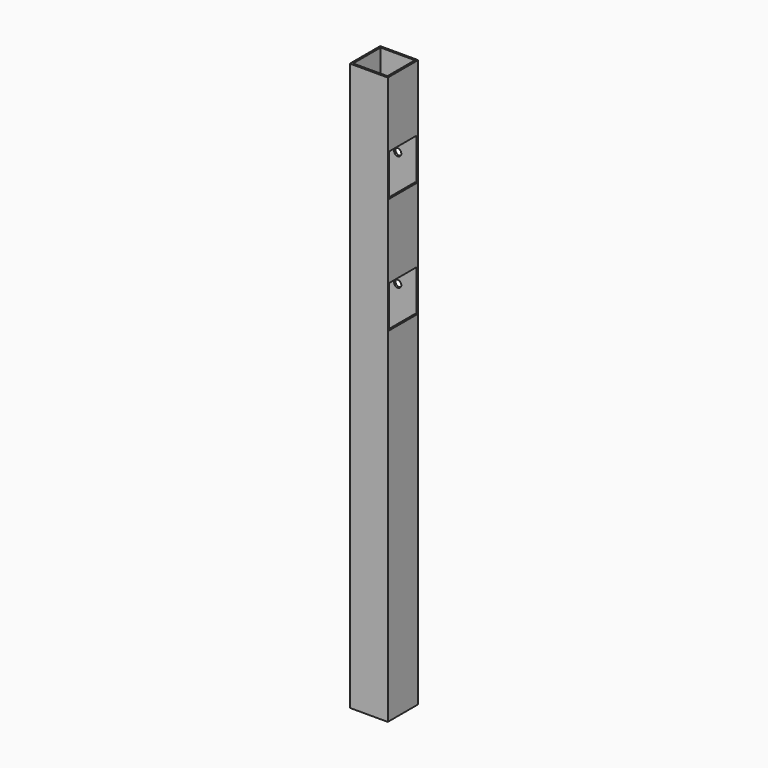
from build123d import *

# Parameters (mm, degrees)
F0_W      = 63.5
F0_H      = 63.5
F0_W_2    = 57.5
F0_H_2    = 57.5
F1_DEPTH  = 950
F2_W      = 57.5
F2_H      = 70
F3_DEPTH  = 3
F4_W      = 57.5
F4_H      = 70
F5_DEPTH  = 3
F7_DEPTH  = 3
F8_DEPTH  = 3
F9_R      = 6
F10_DEPTH = 3
F11_R     = 6
F12_DEPTH = 3


with BuildPart() as f1:
    # F0 (on Top) → F1 (new body)
    with BuildSketch(Plane.XY):
        with Locations((7.6151648536, -5.7103513741)):
            Rectangle(F0_W, F0_H)
        with Locations((7.6151648536, -5.7103513741)):
            Rectangle(F0_W_2, F0_H_2, mode=Mode.SUBTRACT)
    extrude(amount=F1_DEPTH)

    # F2 (on face) → F3 (cut)
    with BuildSketch(Plane.YZ.offset(39.3651648536)):
        with Locations((-5.7103513741, 805)):
            Rectangle(F2_W, F2_H)
    extrude(amount=-F3_DEPTH, mode=Mode.SUBTRACT)

    # F4 (on face) → F5 (cut)
    with BuildSketch(Plane.YZ.offset(39.3651648536)):
        with Locations((-5.7103513741, 611)):
            Rectangle(F4_W, F4_H)
    extrude(amount=-F5_DEPTH, mode=Mode.SUBTRACT)

    # F9 (on face) → F10 (cut)
    with BuildSketch(Plane(origin=(0, 26.0396486259, 0), x_dir=(-1, 0, 0), z_dir=(0, 1, 0))):
        with Locations((-7.6151648536, 805)):
            Circle(F9_R)
    extrude(amount=-F10_DEPTH, mode=Mode.SUBTRACT)

    # F11 (on face) → F12 (cut)
    with BuildSketch(Plane(origin=(0, 26.0396486259, 0), x_dir=(-1, 0, 0), z_dir=(0, 1, 0))):
        with Locations((-7.6151648536, 611)):
            Circle(F11_R)
    extrude(amount=-F12_DEPTH, mode=Mode.SUBTRACT)


with BuildPart() as f7:
    # F4 (on face) → F7 (new body)
    with BuildSketch(Plane.YZ.offset(39.3651648536)):
        with Locations((-5.7103513741, 611)):
            Rectangle(F4_W, F4_H)
    extrude(amount=F7_DEPTH)

    # F8 (cut): a face of the model
    f8_faces = [f7.faces().sort_by_distance(p)[0] for p in [
        (42.3651648536, -5.7103513741, 611),
    ]]
    extrude(f8_faces, amount=-F8_DEPTH, mode=Mode.SUBTRACT)


solid = f1.part
